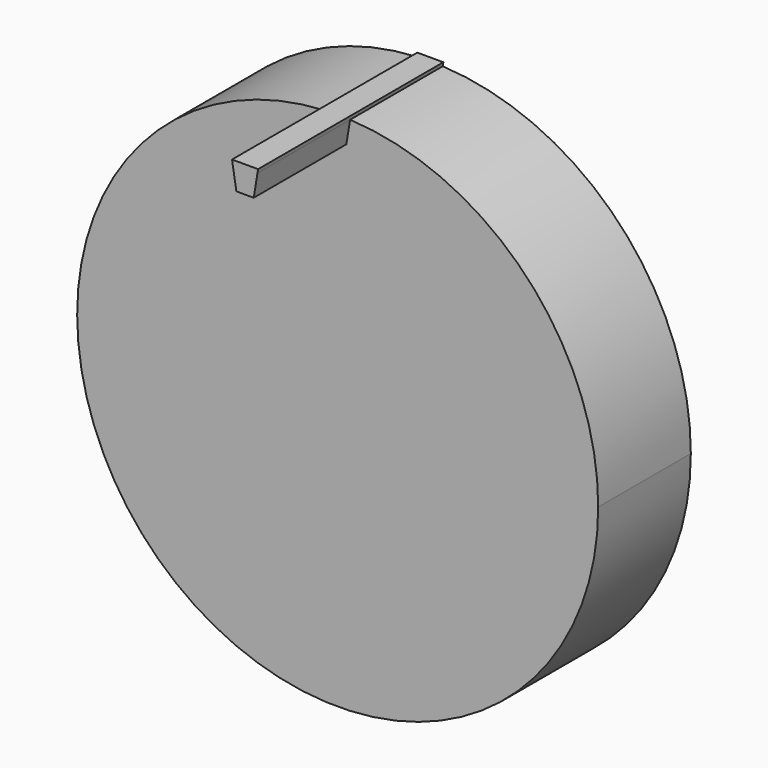
from build123d import *

# Parameters (mm, degrees)
F1_DEPTH = 20
F2_DEPTH = 10


with BuildPart() as f1:
    # F0 (on Front) → F1 (new body)
    with BuildSketch(Plane.XZ):
        with BuildLine():
            Line((0.7485, 20.5), (1.072906, 22.474405))
            ThreePointArc((1.072906, 22.474405), (0, 22.5), (-1.072906, 22.474405))
            Line((-1.072906, 22.474405), (-0.7485, 20.5))
            Line((-0.7485, 20.5), (0.7485, 20.5))
        make_face()
        with BuildLine():
            ThreePointArc((-1.072906, 22.474405), (0, 22.5), (1.072906, 22.474405))
            Line((1.072906, 22.474405), (1.12626, 22.799129))
            Line((1.12626, 22.799129), (-1.12626, 22.799129))
            Line((-1.12626, 22.799129), (-1.072906, 22.474405))
        make_face()
    extrude(amount=F1_DEPTH)

    # F0 (on Front) → F2 (join)
    with BuildSketch(Plane.XZ):
        with BuildLine():
            ThreePointArc((-1.072906, 22.474405), (-15.52594, -16.284815), (22.5, 0))
            ThreePointArc((22.5, 0), (16.284815, 15.52594), (1.072906, 22.474405))
            Line((1.072906, 22.474405), (0.7485, 20.5))
            Line((0.7485, 20.5), (-0.7485, 20.5))
            Line((-0.7485, 20.5), (-1.072906, 22.474405))
        make_face()
    extrude(amount=F2_DEPTH)


solid = f1.part
